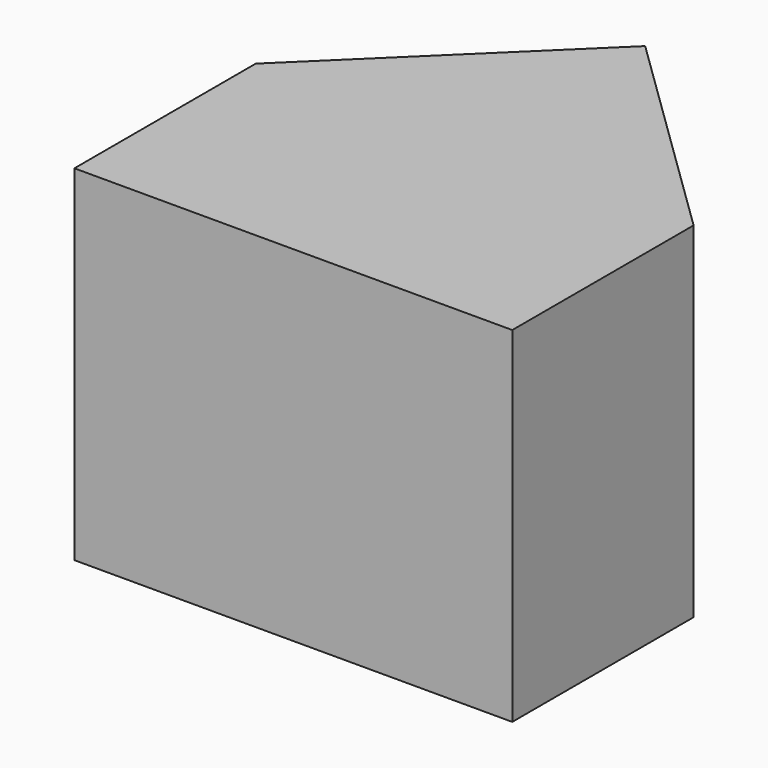
from build123d import *

# Parameters (mm, degrees)
F0_W     = 65.873436
F0_H     = 34.102622
F1_DEPTH = 51.9


with BuildPart() as f1:
    # F0 (on Top) → F1 (new body)
    with BuildSketch(Plane.XY):
        Polygon((-32.936718, 17.051311), (32.936718, 17.051311), (0, 49.113605), align=None)
        Rectangle(F0_W, F0_H)
    extrude(amount=F1_DEPTH)


solid = f1.part
